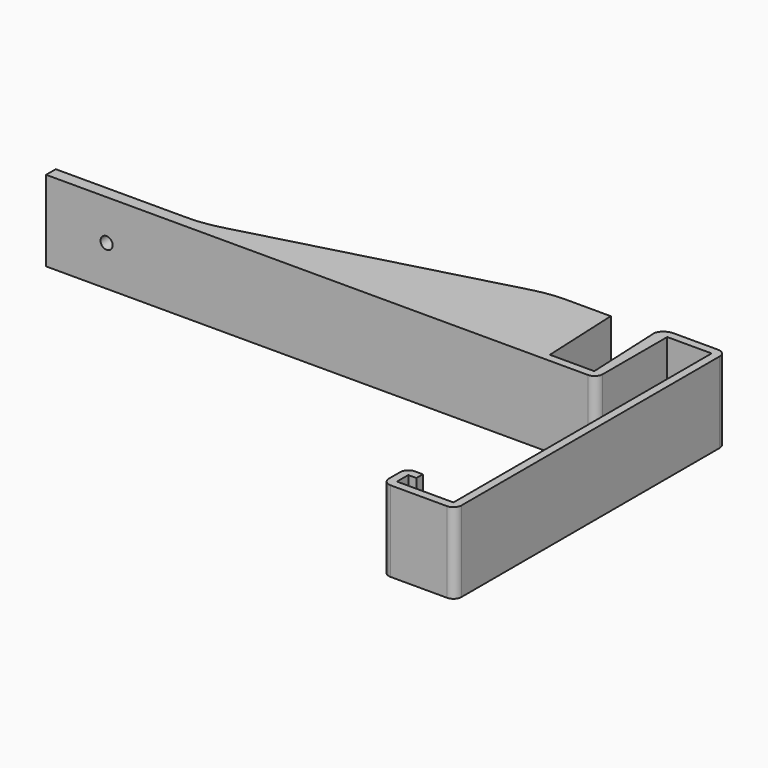
from build123d import *

# Parameters (mm, degrees)
F1_DEPTH = 20
F2_R     = 30
F3_R     = 2
F4_R     = 2
F5_R     = 1.5
F6_DEPTH = 25


with BuildPart() as f1:
    # F0 (on Top) → F1 (new body)
    with BuildSketch(Plane.XY):
        with BuildLine():
            Line((0, -3.5), (0, 0))
            Line((0, 0), (2, 0))
            Line((2, 0), (2, 2))
            Line((2, 2), (-2, 2))
            Line((-2, 2), (-2, 0))
            Line((-2, 0), (-2, -5.5))
            Line((-2, -5.5), (16, -5.5))
            Line((16, -5.5), (16, 54.5))
            Line((16, 54.5), (16, 76.5))
            ThreePointArc((16, 76.5), (15.414214, 77.914214), (14, 78.5))
            Line((14, 78.5), (3, 78.5))
            ThreePointArc((3, 78.5), (1.197224, 77.954163), (0, 76.5))
            Line((0, 76.5), (0.909091, 56.5))
            Line((0.909091, 56.5), (-10.090909, 56.5))
            Line((-10.090909, 56.5), (-11, 76.5))
            Line((-11, 76.5), (-26, 76.5))
            Line((-26, 76.5), (-96.908965, 57.5))
            Line((-96.908965, 57.5), (-133.387446, 57.5))
            Line((-133.387446, 57.5), (-133.387446, 54.5))
            Line((-133.387446, 54.5), (-10, 54.5))
            Line((-10, 54.5), (1, 54.5))
            Line((1, 54.5), (3, 54.5))
            Line((3, 54.5), (3, 76.5))
            Line((3, 76.5), (14, 76.5))
            Line((14, 76.5), (14, 54.5))
            Line((14, 54.5), (14, -3.5))
            Line((14, -3.5), (0, -3.5))
        make_face()
    extrude(amount=F1_DEPTH)

    # F2
    f2_edges = [f1.edges().sort_by_distance(p)[0] for p in [
        (-96.908965, 57.5, 10),
        (-26, 76.5, 10),
    ]]
    fillet(f2_edges, radius=F2_R)

    # F3
    f3_edges = [f1.edges().sort_by_distance(p)[0] for p in [
        (0, 76.5, 10),
    ]]
    fillet(f3_edges, radius=F3_R)

    # F4
    f4_edges = [f1.edges().sort_by_distance(p)[0] for p in [
        (16, -5.5, 10),
        (-2, -5.5, 10),
        (-2, 2, 10),
        (3, 54.5, 10),
    ]]
    fillet(f4_edges, radius=F4_R)

    # F5 (on face) → F6 (cut)
    with BuildSketch(Plane(origin=(0, 57.5, 0), x_dir=(-1, 0, 0), z_dir=(0, 1, 0))):
        with Locations((118.387446, 10)):
            Circle(F5_R)
    extrude(amount=-F6_DEPTH, mode=Mode.SUBTRACT)


solid = f1.part
